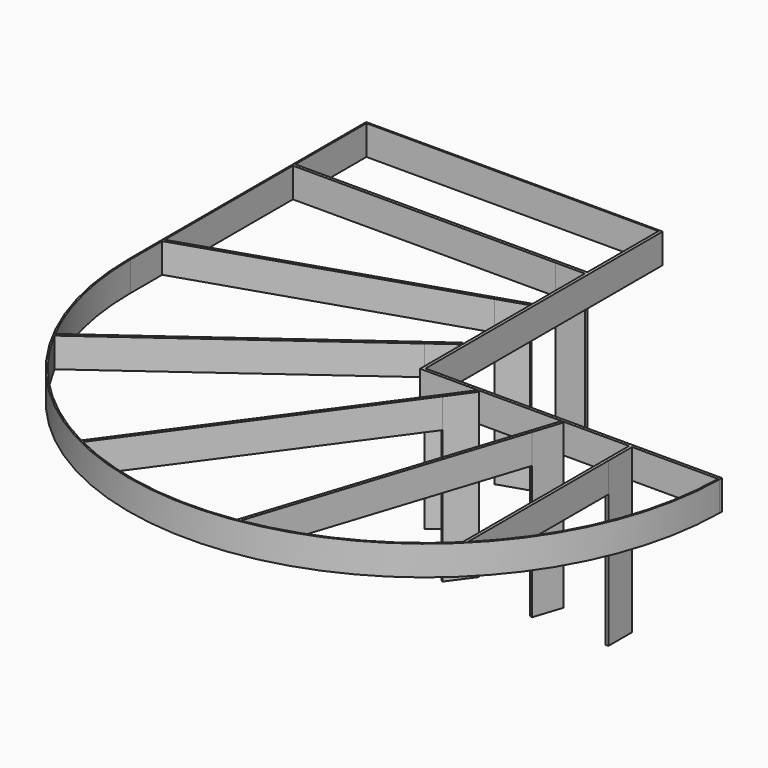
from build123d import *

# Parameters (mm, degrees)
F1_DEPTH = 100
F2_DEPTH = 100
F0_W     = 100
F0_H     = 10
F0_W_2   = 10
F0_H_2   = 100
F3_DEPTH = 550
F0_W_3   = 885
F4_DEPTH = 100


with BuildPart() as f1:
    # F0 (on Top) → F1 (new body)
    with BuildSketch(Plane.XY):
        with BuildLine():
            Line((0, -1000), (0, 0))
            Line((0, 0), (-10, 0))
            Line((-10, 0), (-10, -5))
            Line((-10, -5), (-10, -305))
            Line((-10, -305), (-10, -315))
            Line((-10, -315), (-10, -535.435673))
            Line((-10, -535.435673), (-10, -545.950295))
            Line((-10, -545.950295), (-10, -819.664855))
            Line((-10, -819.664855), (-10, -832.025535))
            Line((-10, -832.025535), (-10, -1010))
            Line((-10, -1010), (185.239891, -1010))
            Line((185.239891, -1010), (197.60057, -1010))
            Line((197.60057, -1010), (467.298902, -1010))
            Line((467.298902, -1010), (477.813524, -1010))
            Line((477.813524, -1010), (695, -1010))
            Line((695, -1010), (705, -1010))
            Line((705, -1010), (994.949747, -1010))
            Line((994.949747, -1010), (999.949999, -1010))
            ThreePointArc((999.949999, -1010), (999.9875, -1005.000063), (1000, -1000))
            Line((1000, -1000), (0, -1000))
        make_face()
    extrude(amount=-F1_DEPTH)

    # F0 (on Top) → F3 (join)
    with BuildSketch(Plane.XY):
        with Locations((-60, -310)):
            Rectangle(F0_W, F0_H)
        Polygon((-105.105652, -576.851995), (-10, -545.950295), (-13.09017, -536.43973), (-108.195822, -567.34143), align=None)
        Polygon((-90.901699, -890.80406), (-10, -832.025535), (-15.877853, -823.935365), (-96.779552, -882.71389), align=None)
        Polygon((193.33006, -1015.877853), (185.239891, -1010), (126.461365, -1090.901699), (134.551535, -1096.779552), align=None)
        Polygon((476.809467, -1013.09017), (467.298902, -1010), (436.397202, -1105.105652), (445.907767, -1108.195822), align=None)
        with Locations((700, -1060)):
            Rectangle(F0_W_2, F0_H_2)
    extrude(amount=-F3_DEPTH)


with BuildPart() as f2:
    # F0 (on Top) → F2 (new body)
    with BuildSketch(Plane.XY):
        with BuildLine():
            Line((-10, -5), (-10, 0))
            Line((-10, 0), (-1000, 0))
            Line((-1000, 0), (-1000, -1000))
            ThreePointArc((-1000, -1000), (-5.000063, -1999.9875), (999.949999, -1010))
            Line((999.949999, -1010), (994.949747, -1010))
            ThreePointArc((994.949747, -1010), (917.726314, -1384.452093), (705, -1702.139587))
            ThreePointArc((705, -1702.139587), (700.017501, -1707.107134), (695, -1712.039325))
            ThreePointArc((695, -1712.039325), (449.254484, -1887.8037), (162.086039, -1981.709283))
            ThreePointArc((162.086039, -1981.709283), (156.544221, -1982.608216), (150.997419, -1983.475866))
            ThreePointArc((150.997419, -1983.475866), (-152.930187, -1983.177175), (-442.588983, -1891.145326))
            ThreePointArc((-442.588983, -1891.145326), (-447.120967, -1888.880105), (-451.641358, -1886.591836))
            ThreePointArc((-451.641358, -1886.591836), (-698.558941, -1708.548097), (-880.090331, -1464.183163))
            ThreePointArc((-880.090331, -1464.183163), (-882.43735, -1459.705691), (-884.761591, -1455.216353))
            ThreePointArc((-884.761591, -1455.216353), (-967.047771, -1234.187123), (-995, -1000))
            Line((-995, -1000), (-995, -865.996196))
            Line((-995, -865.996196), (-995, -855.481574))
            Line((-995, -855.481574), (-995, -315))
            Line((-995, -315), (-995, -305))
            Line((-995, -305), (-995, -5))
            Line((-995, -5), (-10, -5))
        make_face()
    extrude(amount=-F2_DEPTH)


with BuildPart() as f4:
    # F0 (on Top) → F4 (new body)
    with BuildSketch(Plane.XY):
        with Locations((-552.5, -310)):
            Rectangle(F0_W_3, F0_H)
        Polygon((-108.195822, -567.34143), (-995, -855.481574), (-995, -865.996196), (-105.105652, -576.851995), align=None)
        with BuildLine():
            Line((-880.090331, -1464.183163), (-90.901699, -890.80406))
            Line((-90.901699, -890.80406), (-96.779552, -882.71389))
            Line((-96.779552, -882.71389), (-884.761591, -1455.216353))
            ThreePointArc((-884.761591, -1455.216353), (-882.43735, -1459.705691), (-880.090331, -1464.183163))
        make_face()
        with BuildLine():
            ThreePointArc((-451.641358, -1886.591836), (-447.120967, -1888.880105), (-442.588983, -1891.145326))
            Line((-442.588983, -1891.145326), (134.551535, -1096.779552))
            Line((134.551535, -1096.779552), (126.461365, -1090.901699))
            Line((126.461365, -1090.901699), (-451.641358, -1886.591836))
        make_face()
        with BuildLine():
            ThreePointArc((150.997419, -1983.475866), (156.544221, -1982.608216), (162.086039, -1981.709283))
            Line((162.086039, -1981.709283), (445.907767, -1108.195822))
            Line((445.907767, -1108.195822), (436.397202, -1105.105652))
            Line((436.397202, -1105.105652), (150.997419, -1983.475866))
        make_face()
        with BuildLine():
            ThreePointArc((695, -1712.039325), (700.017501, -1707.107134), (705, -1702.139587))
            Line((705, -1702.139587), (705, -1110))
            Line((705, -1110), (695, -1110))
            Line((695, -1110), (695, -1712.039325))
        make_face()
    extrude(amount=-F4_DEPTH)


solid = Compound([f1.part, f2.part, f4.part])
